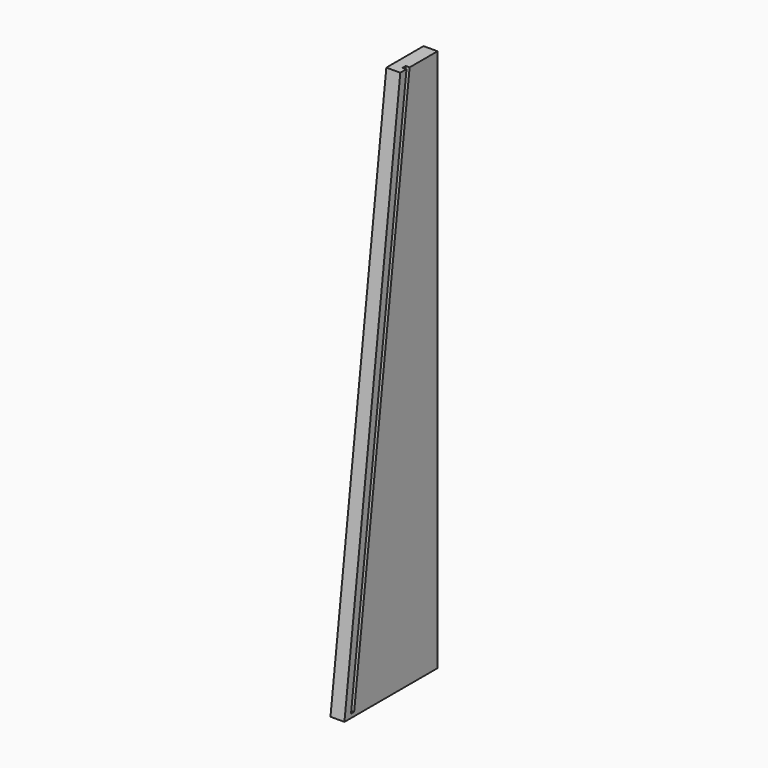
from build123d import *

# Parameters (mm, degrees)
F1_DEPTH = 18
F3_DEPTH = 5
F4_R     = 1.5
F5_DEPTH = 5


with BuildPart() as f1:
    # F0 (on Right) → F1 (new body)
    with BuildSketch(Plane.YZ):
        Polygon((90, 700), (0, 0), (150, 0), (150, 700), align=None)
    extrude(amount=F1_DEPTH)

    # F2 (on face) → F3 (cut)
    with BuildSketch(Plane.YZ.offset(18)):
        Polygon((100, 700), (10.642857, 5), (15.642857, 5), (105, 700), align=None)
    extrude(amount=-F3_DEPTH, mode=Mode.SUBTRACT)

    # F4 (on face) → F5 (cut)
    with BuildSketch(Plane(origin=(0, 0, 0), x_dir=(1, 0, 0), z_dir=(0, 0, -1))):
        with Locations((9, -10)):
            Circle(F4_R)
        with Locations((9, -140)):
            Circle(F4_R)
    extrude(amount=-F5_DEPTH, mode=Mode.SUBTRACT)


solid = f1.part
